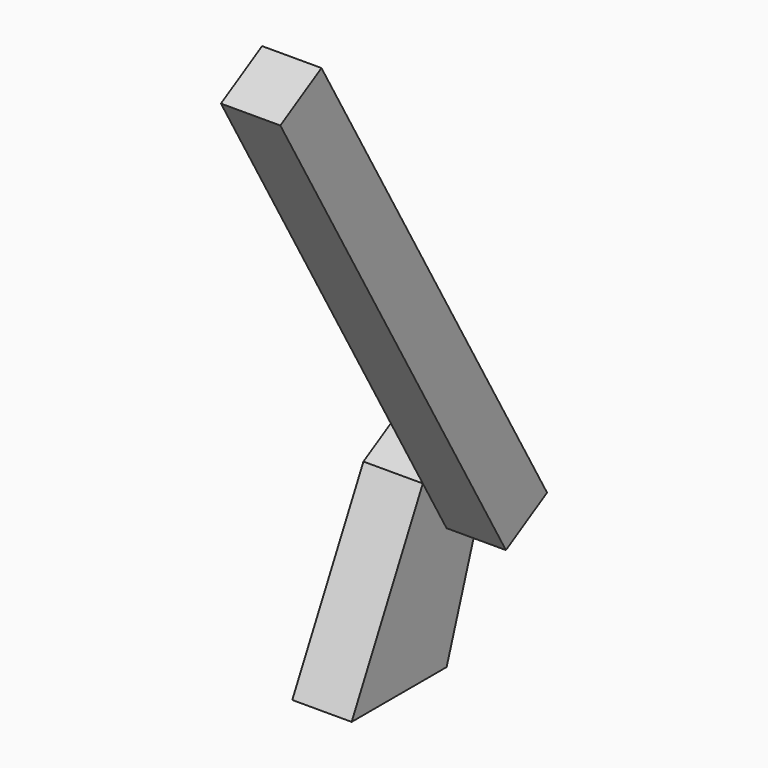
from build123d import *

# Parameters (mm, degrees)
EXTRUDE025_DEPTH                          = 4
EXTRUDE024_DEPTH                          = 4
EXTRUDE024_ONTO_SKETCH023_PLACEMENT_ANGLE = 120


with BuildPart() as extrude025:
    # Sketch024 (on Face7 of Extrude024) → Extrude025 (new body)
    with BuildSketch(Plane(origin=(32.5, 0, 0), x_dir=(0, -1, 0), z_dir=(-1, 0, 0))):
        Polygon((-19, 10), (-22.458142, 20.240827), (-16.99404, 21.704929), (-11, 10), align=None)
    extrude(amount=-EXTRUDE025_DEPTH)


with BuildPart() as pin_reset:
    # Sketch023 as drawn → Extrude024 (new)
    with BuildSketch(Plane.XY):
        Polygon((32.5, 10.3), (36.5, 10.3), (36.5, 44.3), (40.5, 44.3), (40.5, 6.3), (36.5, 6.3), (32.5, 6.3), align=None)
    extrude(amount=EXTRUDE024_DEPTH)


with BuildPart() as pin_reset_1:
    # Extrude024 onto Sketch023 placement: moved
    add(pin_reset.part.moved(Location((0, 25.608142, 14.784867))).rotate(Axis((0, 25.608142, 14.784867), (1, 0, 0)), EXTRUDE024_ONTO_SKETCH023_PLACEMENT_ANGLE))

    # Connect006: union Extrude025
    add(extrude025.part)


solid = pin_reset_1.part
